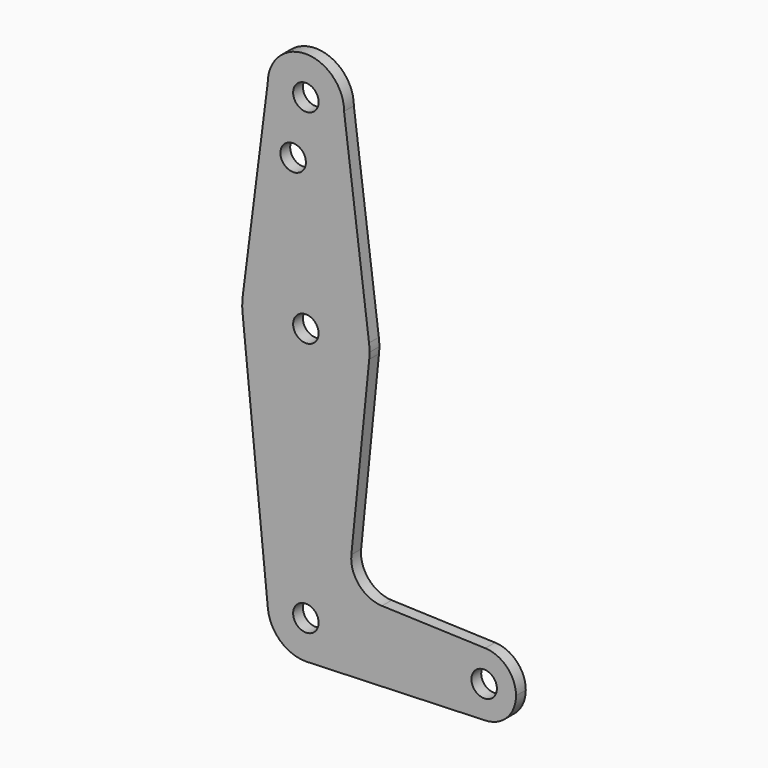
from build123d import *

# Parameters (mm, degrees)
F0_R     = 3.175
F1_DEPTH = 3.048


with BuildPart() as f1:
    # F0 (on Front) → F1 (new body)
    with BuildSketch(Plane.XZ):
        with BuildLine():
            ThreePointArc((-9.525, 114.3), (0, 104.775), (9.525, 114.3))
            ThreePointArc((9.525, 114.3), (0, 123.825), (-9.525, 114.3))
        make_face()
        with Locations((0, 114.3)):
            Circle(F0_R, mode=Mode.SUBTRACT)
        with BuildLine():
            Line((15.747457, 65.508289), (9.525, 114.3))
            ThreePointArc((9.525, 114.3), (0, 104.775), (-9.525, 114.3))
            Line((-9.525, 114.3), (-15.747457, 65.508289))
            ThreePointArc((-15.747457, 65.508289), (0, 79.375), (15.747457, 65.508289))
        make_face()
        with Locations((-3.175, 100.0252)):
            Circle(F0_R, mode=Mode.SUBTRACT)
        with BuildLine():
            ThreePointArc((15.875, 63.5), (15.843082, 64.506168), (15.747457, 65.508289))
            ThreePointArc((15.747457, 65.508289), (0, 79.375), (-15.747457, 65.508289))
            ThreePointArc((-15.747457, 65.508289), (-15.873588, 63.711757), (-15.795426, 61.9125))
            ThreePointArc((-15.795426, 61.9125), (0, 47.625), (15.795426, 61.9125))
            ThreePointArc((15.795426, 61.9125), (15.855094, 62.705253), (15.875, 63.5))
        make_face()
        with Locations((0, 63.5)):
            Circle(F0_R, mode=Mode.SUBTRACT)
        with BuildLine():
            ThreePointArc((15.795426, 61.9125), (0, 47.625), (-15.795426, 61.9125))
            Line((-15.795426, 61.9125), (-9.477255, -0.9525))
            ThreePointArc((-9.477255, -0.9525), (-0.476848, 9.513056), (9.525, 0))
            Line((9.525, 0), (36.5125, 0))
            ThreePointArc((36.5125, 0), (38.93809, 5.711633), (44.732405, 7.932475))
            Line((44.732405, 7.932475), (18.968328, 8.849706))
            ThreePointArc((18.968328, 8.849706), (13.261204, 11.567463), (11.340836, 17.589892))
            Line((11.340836, 17.589892), (15.795426, 61.9125))
        make_face()
        Circle(F0_R)
        with BuildLine():
            ThreePointArc((9.525, 0), (-0.476848, 9.513056), (-9.477255, -0.9525))
            ThreePointArc((-9.477255, -0.9525), (-6.389564, -7.063929), (0, -9.525))
            Line((0, -9.525), (0.677344, -9.500886))
            ThreePointArc((0.677344, -9.500886), (6.970557, -6.491299), (9.525, 0))
        make_face()
        Circle(F0_R, mode=Mode.SUBTRACT)
        with BuildLine():
            Line((36.5125, 0), (9.525, 0))
            ThreePointArc((9.525, 0), (6.970557, -6.491299), (0.677344, -9.500886))
            Line((0.677344, -9.500886), (44.732405, -7.932475))
            ThreePointArc((44.732405, -7.932475), (38.93809, -5.711633), (36.5125, 0))
        make_face()
        with BuildLine():
            Line((0.677344, -9.500886), (0, -9.525))
            ThreePointArc((0, -9.525), (0.338886, -9.51897), (0.677344, -9.500886))
        make_face()
        with BuildLine():
            ThreePointArc((47.625, 0), (44.45, 3.175), (41.275, 0))
            ThreePointArc((41.275, 0), (44.45, -3.175), (47.625, 0))
        make_face()
        with BuildLine():
            ThreePointArc((44.732405, 7.932475), (38.93809, 5.711633), (36.5125, 0))
            ThreePointArc((36.5125, 0), (38.93809, -5.711633), (44.732405, -7.932475))
            ThreePointArc((44.732405, -7.932475), (50.161633, -5.51191), (52.3875, 0))
            ThreePointArc((52.3875, 0), (50.161633, 5.51191), (44.732405, 7.932475))
        make_face()
        with BuildLine():
            ThreePointArc((47.625, 0), (44.45, -3.175), (41.275, 0))
            ThreePointArc((41.275, 0), (44.45, 3.175), (47.625, 0))
        make_face(mode=Mode.SUBTRACT)
    extrude(amount=F1_DEPTH)


solid = f1.part
